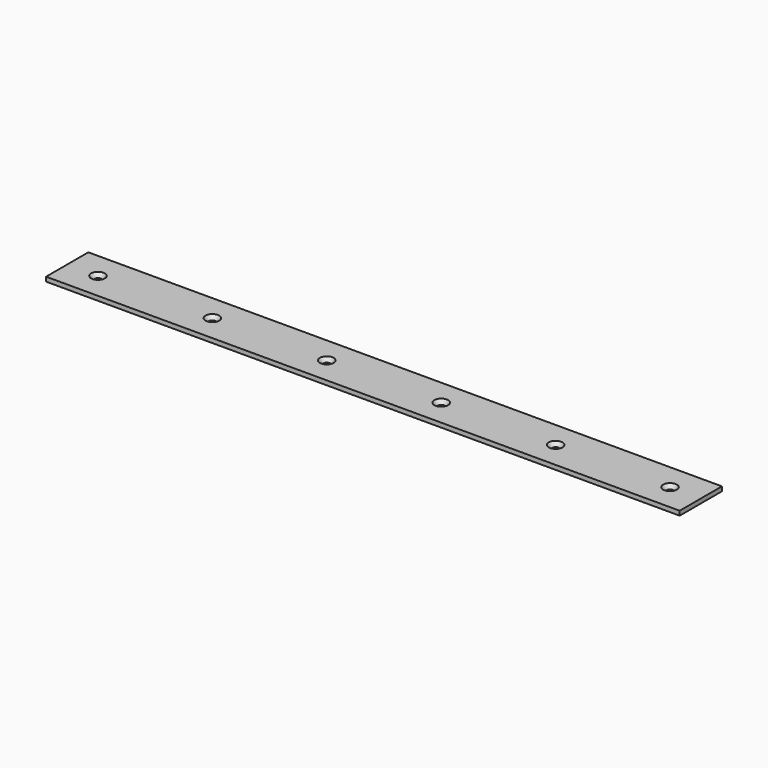
from build123d import *

# Parameters (mm, degrees)
F0_W           = 914.4
F0_H           = 76.2
F0_R           = 4.7625
F1_DEPTH       = 6.35
F2_D           = 10.3124
F2_CSINK_D     = 19.8374
F2_CSINK_ANGLE = 82


with BuildPart() as f1:
    # F0 (on Top) → F1 (new body)
    with BuildSketch(Plane.XY):
        Rectangle(F0_W, F0_H)
        with Locations((-412.75, 0)):
            Circle(F0_R, mode=Mode.SUBTRACT)
        with Locations((-247.65, 0)):
            Circle(F0_R, mode=Mode.SUBTRACT)
        with Locations((-82.55, 0)):
            Circle(F0_R, mode=Mode.SUBTRACT)
        with Locations((82.55, 0)):
            Circle(F0_R, mode=Mode.SUBTRACT)
        with Locations((247.65, 0)):
            Circle(F0_R, mode=Mode.SUBTRACT)
        with Locations((412.75, 0)):
            Circle(F0_R, mode=Mode.SUBTRACT)
        with Locations((-82.55, 0)):
            Circle(F0_R)
        with Locations((82.55, 0)):
            Circle(F0_R)
        with Locations((247.65, 0)):
            Circle(F0_R)
        with Locations((412.75, 0)):
            Circle(F0_R)
        with Locations((-412.75, 0)):
            Circle(F0_R)
        with Locations((-247.65, 0)):
            Circle(F0_R)
    extrude(amount=-F1_DEPTH)

    # F2 (through all)
    with Locations(Plane.XY):
        with Locations((-412.75, 0), (-247.65, 0), (-82.55, 0), (82.55, 0), (247.65, 0), (412.75, 0)):
            CounterSinkHole(F2_D / 2, F2_CSINK_D / 2, counter_sink_angle=F2_CSINK_ANGLE)


solid = f1.part
